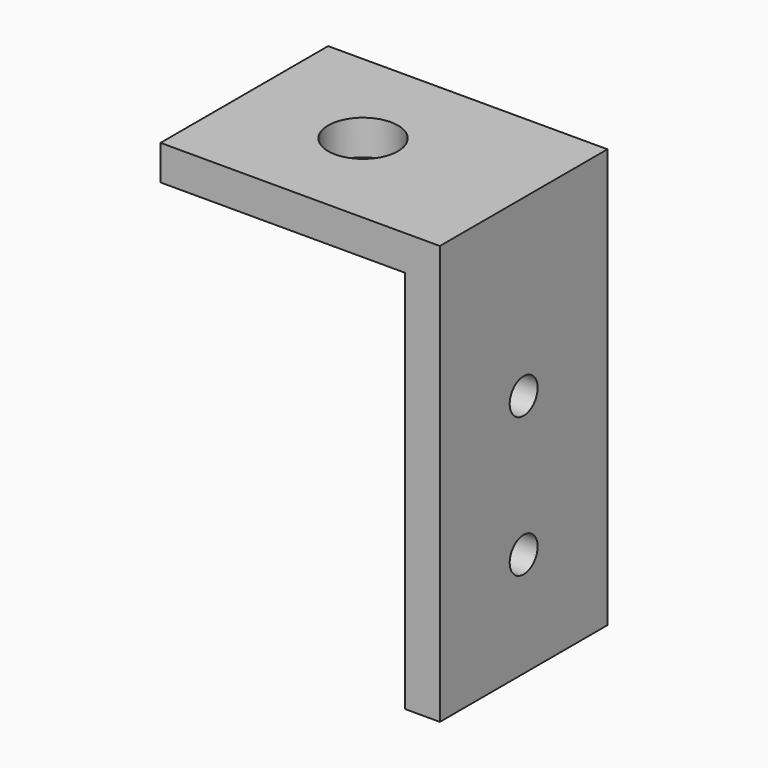
from build123d import *

# Parameters (mm, degrees)
F1_DEPTH = 38.1
F2_R     = 3.175
F3_DEPTH = 25.4
F4_R     = 6.35
F5_DEPTH = 25.4


with BuildPart() as f1:
    # F0 (on Front) → F1 (new body)
    with BuildSketch(Plane.XZ):
        Polygon((0, 69.85), (0, 0), (6.35, 0), (6.35, 76.2), (-44.45, 76.2), (-44.45, 69.85), align=None)
    extrude(amount=F1_DEPTH)

    # F2 (on face) → F3 (cut)
    with BuildSketch(Plane.YZ.offset(6.35)):
        with Locations((-19.05, 44.45)):
            Circle(F2_R)
        with Locations((-19.05, 19.05)):
            Circle(F2_R)
    extrude(amount=-F3_DEPTH, mode=Mode.SUBTRACT)

    # F4 (on face) → F5 (cut)
    with BuildSketch(Plane(origin=(0, 0, 69.85), x_dir=(1, 0, 0), z_dir=(0, 0, -1))):
        with Locations((-22.86, 19.05)):
            Circle(F4_R)
    extrude(amount=-F5_DEPTH, mode=Mode.SUBTRACT)


solid = f1.part
